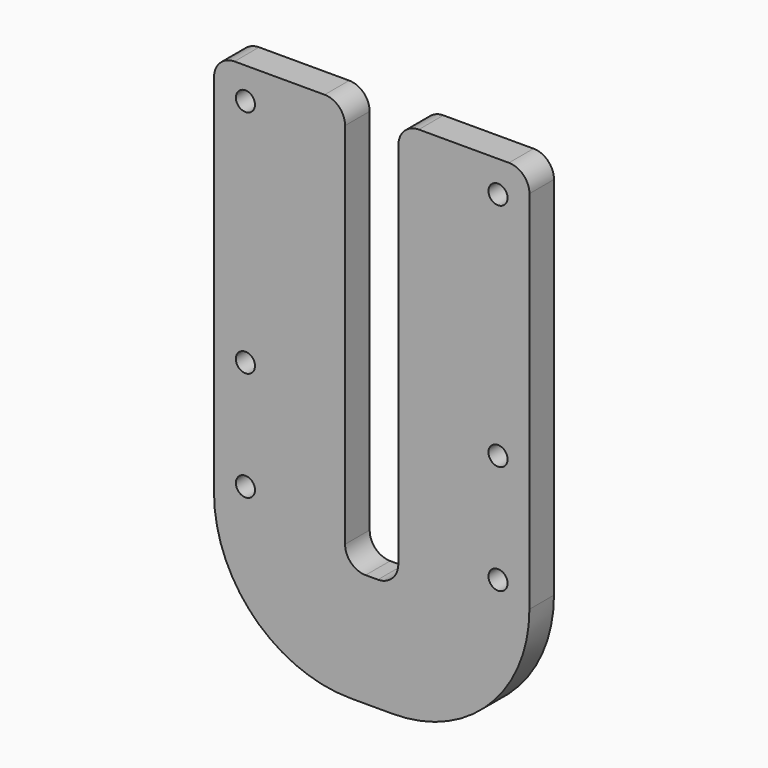
from build123d import *

# Parameters (mm, degrees)
F0_R     = 1.4
F1_DEPTH = 4.5
F2_R     = 3
F3_R     = 20


with BuildPart() as f1:
    # F0 (on Front) → F1 (new body)
    with BuildSketch(Plane.XZ):
        Polygon((-23.1, -38.3), (23.1, -38.3), (23.1, 38.3), (3.9, 38.3), (3.9, -21.7), (-3.9, -21.7), (-3.9, 38.3), (-23.1, 38.3), align=None)
        with Locations((-18.5, -16)):
            Circle(F0_R, mode=Mode.SUBTRACT)
        with Locations((18.5, -16)):
            Circle(F0_R, mode=Mode.SUBTRACT)
        with Locations((-18.5, 0)):
            Circle(F0_R, mode=Mode.SUBTRACT)
        with Locations((-18.5, 33.7)):
            Circle(F0_R, mode=Mode.SUBTRACT)
        with Locations((18.5, 0)):
            Circle(F0_R, mode=Mode.SUBTRACT)
        with Locations((18.5, 33.7)):
            Circle(F0_R, mode=Mode.SUBTRACT)
    extrude(amount=F1_DEPTH)

    # F2
    f2_edges = [f1.edges().sort_by_distance(p)[0] for p in [
        (-23.1, -2.25, 38.3),
        (23.1, -2.25, 38.3),
        (-3.9, -2.25, -21.7),
        (3.9, -2.25, -21.7),
        (-3.9, -2.25, 38.3),
        (3.9, -2.25, 38.3),
    ]]
    fillet(f2_edges, radius=F2_R)

    # F3
    f3_edges = [f1.edges().sort_by_distance(p)[0] for p in [
        (-23.1, -2.25, -38.3),
        (23.1, -2.25, -38.3),
    ]]
    fillet(f3_edges, radius=F3_R)


solid = f1.part
